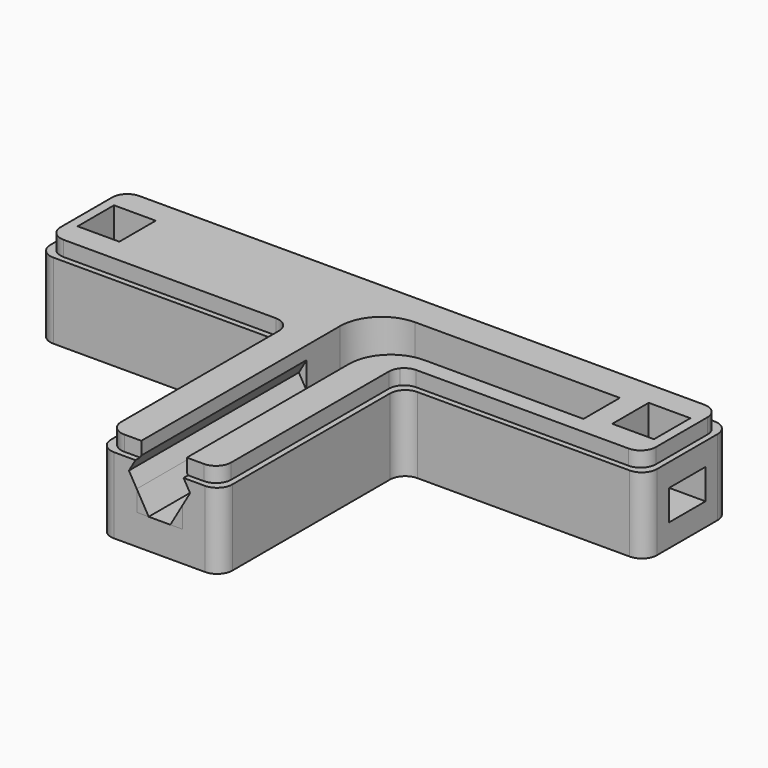
from build123d import *

# Parameters (mm, degrees)
F1_DEPTH  = 12
F3_DEPTH  = 8
F5_DEPTH  = 28
F7_DEPTH  = 28
F9_DEPTH  = 8
F11_DEPTH = 7.5
F12_W     = 6
F12_H     = 4
F13_DEPTH = 7.5
F15_DEPTH = 2


with BuildPart() as f1:
    # F0 (on Top) → F1 (new body)
    with BuildSketch(Plane.XY):
        with BuildLine():
            Line((0, 0), (10, 0))
            Line((10, 0), (35, 0))
            ThreePointArc((35, 0), (36.414214, 0.585786), (37, 2))
            Line((37, 2), (37, 12))
            ThreePointArc((37, 12), (36.414214, 13.414214), (35, 14))
            Line((35, 14), (-35, 14))
            ThreePointArc((-35, 14), (-36.414214, 13.414214), (-37, 12))
            Line((-37, 12), (-37, 2))
            ThreePointArc((-37, 2), (-36.414214, 0.585786), (-35, 0))
            Line((-35, 0), (-10, 0))
            Line((-10, 0), (0, 0))
        make_face()
        with BuildLine():
            Line((-38, 0), (-35, 0))
            ThreePointArc((-35, 0), (-36.414214, 0.585786), (-37, 2))
            Line((-37, 2), (-37, 12))
            ThreePointArc((-37, 12), (-36.414214, 13.414214), (-35, 14))
            Line((-35, 14), (-38, 14))
            ThreePointArc((-38, 14), (-39.414214, 13.414214), (-40, 12))
            Line((-40, 12), (-40, 2))
            ThreePointArc((-40, 2), (-39.414214, 0.585786), (-38, 0))
        make_face()
        with BuildLine():
            ThreePointArc((37, 2), (36.414214, 0.585786), (35, 0))
            Line((35, 0), (38, 0))
            ThreePointArc((38, 0), (39.414214, 0.585786), (40, 2))
            Line((40, 2), (40, 12))
            ThreePointArc((40, 12), (39.414214, 13.414214), (38, 14))
            Line((38, 14), (35, 14))
            ThreePointArc((35, 14), (36.414214, 13.414214), (37, 12))
            Line((37, 12), (37, 2))
        make_face()
        with BuildLine():
            Line((0, 0), (10, 0))
            Line((10, 0), (35, 0))
            ThreePointArc((35, 0), (36.414214, 0.585786), (37, 2))
            Line((37, 2), (37, 12))
            ThreePointArc((37, 12), (36.414214, 13.414214), (35, 14))
            Line((35, 14), (-35, 14))
            ThreePointArc((-35, 14), (-36.414214, 13.414214), (-37, 12))
            Line((-37, 12), (-37, 2))
            ThreePointArc((-37, 2), (-36.414214, 0.585786), (-35, 0))
            Line((-35, 0), (-10, 0))
            Line((-10, 0), (0, 0))
        make_face()
        with BuildLine():
            ThreePointArc((8, -2), (8.585786, -0.585786), (10, 0))
            Line((10, 0), (0, 0))
            Line((0, 0), (-10, 0))
            ThreePointArc((-10, 0), (-8.585786, -0.585786), (-8, -2))
            Line((-8, -2), (-8, -28))
            ThreePointArc((-8, -28), (-7.414214, -29.414214), (-6, -30))
            Line((-6, -30), (6, -30))
            ThreePointArc((6, -30), (7.414214, -29.414214), (8, -28))
            Line((8, -28), (8, -2))
        make_face()
    extrude(amount=F1_DEPTH)

    # F2 (on face) → F3 (cut)
    with BuildSketch(Plane.XY.offset(12)):
        with BuildLine():
            Line((29.5, 3), (29.5, 9))
            Line((29.5, 9), (2.5, 9))
            ThreePointArc((2.5, 9), (-1.389087, 7.389087), (-3, 3.5))
            Line((-3, 3.5), (-3, -30))
            Line((-3, -30), (3, -30))
            Line((3, -30), (3, -2.5))
            ThreePointArc((3, -2.5), (4.610913, 1.389087), (8.5, 3))
            Line((8.5, 3), (29.5, 3))
        make_face()
    extrude(amount=-F3_DEPTH, mode=Mode.SUBTRACT)

    # F4 (on face) → F5 (cut)
    with BuildSketch(Plane.XZ.offset(30)):
        Polygon((-2.016117, 5.015964), (2.016117, 5.015964), (4.032235, 8.507982), (2.016117, 12), (-2.016117, 12), (-4.032235, 8.507982), align=None)
    extrude(amount=-F5_DEPTH, mode=Mode.SUBTRACT)

    # F8 (on face) → F9 (cut)
    with BuildSketch(Plane.XY.offset(12)):
        Polygon((32.5, 4), (35, 4), (38, 4), (38, 10), (35, 10), (33, 10), (32.5, 10), (32.5, 4.626769), align=None)
        Polygon((-38, 4), (-35, 4), (-33, 4), (-32.5, 4), (-32.5, 10), (-33, 10), (-35, 10), (-38, 10), align=None)
    extrude(amount=-F9_DEPTH, mode=Mode.SUBTRACT)

    # F10 (on face) → F11 (cut, through all)
    with BuildSketch(Plane.YZ.offset(40)):
        Polygon((10, 7), (4, 7), (4, 4), (4, 3), (10, 3), (10, 4), (10, 5), align=None)
    extrude(amount=-F11_DEPTH, mode=Mode.SUBTRACT)

    # F12 (on face) → F13 (cut, through all)
    with BuildSketch(Plane(origin=(-40, 0, 0), x_dir=(0, -1, 0), z_dir=(-1, 0, 0))):
        with Locations((-7, 5)):
            Rectangle(F12_W, F12_H)
    extrude(amount=-F13_DEPTH, mode=Mode.SUBTRACT)

    # F14 (on face) → F15 (cut)
    with BuildSketch(Plane.XY.offset(12)):
        with BuildLine():
            Line((5.249343, -29.25), (0, -29.25))
            Line((0, -29.25), (0, -30))
            Line((0, -30), (4.179587, -30))
            Line((4.179587, -30), (6, -30))
            ThreePointArc((6, -30), (7.414214, -29.414214), (8, -28))
            Line((8, -28), (8, -6.407865))
            Line((8, -6.407865), (8, -2))
            ThreePointArc((8, -2), (8.585786, -0.585786), (10, 0))
            Line((10, 0), (7.688094, 0))
            ThreePointArc((7.688094, 0), (7.362216, -0.587618), (7.249343, -1.25))
            Line((7.249343, -1.25), (7.249343, -27.25))
            ThreePointArc((7.249343, -27.25), (6.663557, -28.664214), (5.249343, -29.25))
        make_face()
        with BuildLine():
            Line((0, -30), (0, -29.25))
            Line((0, -29.25), (-5.25, -29.25))
            ThreePointArc((-5.25, -29.25), (-6.664214, -28.664214), (-7.25, -27.25))
            Line((-7.25, -27.25), (-7.25, -1.25))
            ThreePointArc((-7.25, -1.25), (-7.835786, 0.164214), (-9.25, 0.75))
            Line((-9.25, 0.75), (-32.738585, 0.75))
            Line((-32.738585, 0.75), (-37.25, 0.75))
            ThreePointArc((-37.25, 0.75), (-38.664214, 1.335786), (-39.25, 2.75))
            Line((-39.25, 2.75), (-39.25, 11.25))
            ThreePointArc((-39.25, 11.25), (-38.664214, 12.664214), (-37.25, 13.25))
            Line((-37.25, 13.25), (37.249343, 13.25))
            ThreePointArc((37.249343, 13.25), (38.663557, 12.664214), (39.249343, 11.25))
            Line((39.249343, 11.25), (39.249343, 2.75))
            ThreePointArc((39.249343, 2.75), (38.663557, 1.335786), (37.249343, 0.75))
            Line((37.249343, 0.75), (9.249343, 0.75))
            ThreePointArc((9.249343, 0.75), (8.383318, 0.552776), (7.688094, 0))
            Line((7.688094, 0), (10, 0))
            Line((10, 0), (38, 0))
            ThreePointArc((38, 0), (39.414214, 0.585786), (40, 2))
            Line((40, 2), (40, 12))
            ThreePointArc((40, 12), (39.414214, 13.414214), (38, 14))
            Line((38, 14), (-38, 14))
            ThreePointArc((-38, 14), (-39.414214, 13.414214), (-40, 12))
            Line((-40, 12), (-40, 2))
            ThreePointArc((-40, 2), (-39.414214, 0.585786), (-38, 0))
            Line((-38, 0), (-32.738585, 0))
            Line((-32.738585, 0), (-10, 0))
            ThreePointArc((-10, 0), (-8.585786, -0.585786), (-8, -2))
            Line((-8, -2), (-8, -28))
            ThreePointArc((-8, -28), (-7.414214, -29.414214), (-6, -30))
            Line((-6, -30), (0, -30))
        make_face()
    extrude(amount=-F15_DEPTH, mode=Mode.SUBTRACT)


with BuildPart() as f7:
    # F6 (on face) → F7 (new body)
    with BuildSketch(Plane.XZ.offset(30)):
        Polygon((-1.42955, 4), (-3, 6.720099), (-3, 4), align=None)
        Polygon((3, 4), (3, 6.720099), (1.42955, 4), align=None)
    extrude(amount=-F7_DEPTH)


solid = Compound([f1.part, f7.part])
